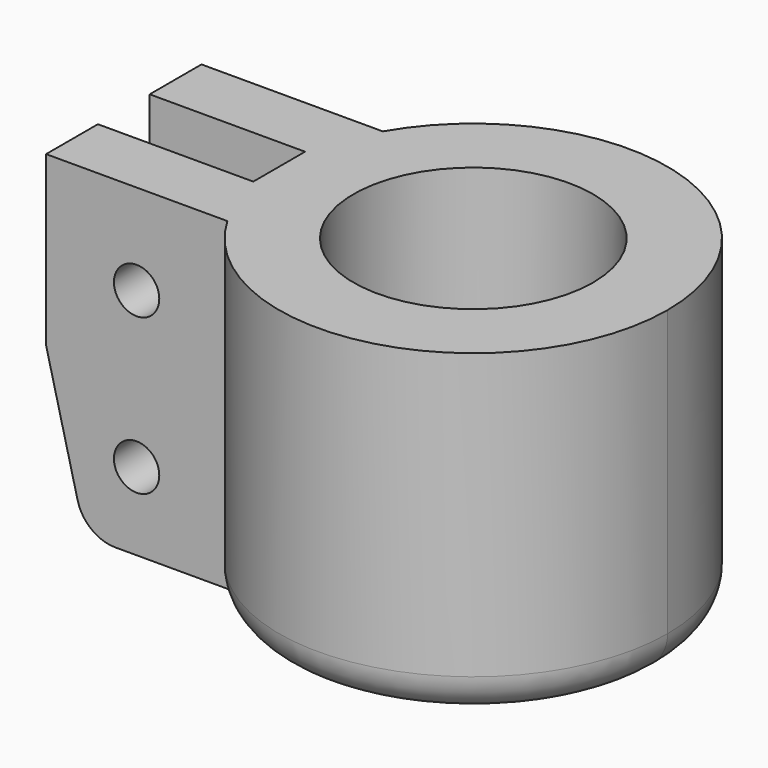
from build123d import *

# Parameters (mm, degrees)
SKETCH_R        = 9.25
PAD_DEPTH       = 25
SKETCH001_R     = 1.75
POCKET_DEPTH    = 22.501
POCKET001_DEPTH = 3
CHAMFER_SIZE2   = 12
CHAMFER_SIZE    = 3
FILLET_R        = 3
FILLET001_R     = 3


with BuildPart() as part:
    # Sketch → Pad (new body)
    with BuildSketch(Plane.XY):
        with BuildLine():
            ThreePointArc((15, 0), (3.882286, 14.488887), (-12.990381, 7.5))
            Line((-12.990381, 7.5), (-26.990381, 7.5))
            Line((-26.990381, 7.5), (-26.990381, 2.5))
            Line((-26.990381, 2.5), (-14.990381, 2.5))
            Line((-14.990381, 2.5), (-14.990381, -2.5))
            Line((-26.990381, -2.5), (-14.990381, -2.5))
            Line((-26.990381, -7.5), (-26.990381, -2.5))
            Line((-12.990381, -7.5), (-26.990381, -7.5))
            ThreePointArc((-12.990381, -7.5), (3.882286, -14.488887), (15, 0))
        make_face()
        Circle(SKETCH_R, mode=Mode.SUBTRACT)
    extrude(amount=PAD_DEPTH)

    # Sketch001 (on Face8 of Pad) → Pocket (cut, through all)
    with BuildSketch(Plane.XZ.offset(7.5)):
        with Locations((-20, 6)):
            Circle(SKETCH001_R)
        with Locations((-20, 18)):
            Circle(SKETCH001_R)
    extrude(amount=-POCKET_DEPTH, mode=Mode.SUBTRACT)

    # Sketch002 (on Face3 of Pocket) → Pocket001 (cut)
    with BuildSketch(Plane(origin=(0, 7.5, 0), x_dir=(-1, 0, 0), z_dir=(0, 1, 0))):
        Polygon((20, 2.75), (22.814583, 4.375), (22.814583, 7.625), (20, 9.25), (17.185417, 7.625), (17.185417, 4.375), align=None)
        Polygon((20, 14.75), (22.814583, 16.375), (22.814583, 19.625), (20, 21.25), (17.185417, 19.625), (17.185417, 16.375), align=None)
    extrude(amount=-POCKET001_DEPTH, mode=Mode.SUBTRACT)

    # Chamfer
    chamfer_edges = [part.edges().sort_by_distance(p)[0] for p in [
        (-26.990381, 5, 0),
        (-26.990381, -5, 0),
    ]]
    chamfer_side = part.faces().sort_by_distance((3.748719, 13.990411, 0))[0]
    chamfer(chamfer_edges, length=CHAMFER_SIZE, length2=CHAMFER_SIZE2, reference=chamfer_side)

    # Fillet
    fillet_edges = [part.edges().sort_by_distance(p)[0] for p in [
        (-23.990381, 5, 0),
        (-23.990381, -5, 0),
    ]]
    fillet(fillet_edges, radius=FILLET_R)

    # Fillet001
    fillet001_edges = [part.edges().sort_by_distance(p)[0] for p in [
        (3.882286, -14.488887, 0),
        (3.882286, 14.488887, 0),
    ]]
    fillet(fillet001_edges, radius=FILLET001_R)


solid = part.part
